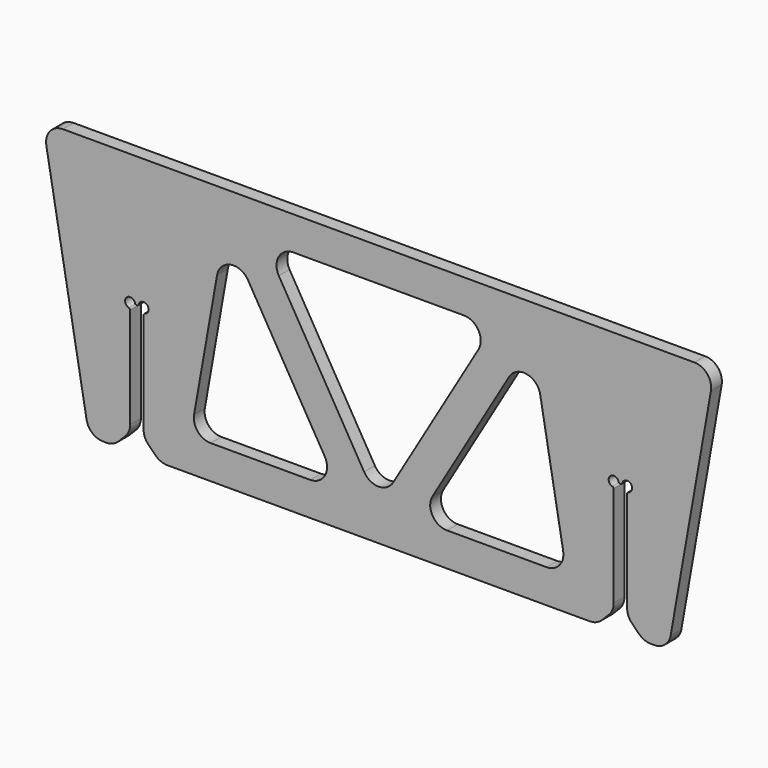
from build123d import *

# Parameters (mm, degrees)
F1_DEPTH = 2
F2_SIZE  = 5
F3_R     = 5
F4_R     = 1.5
F5_DEPTH = 4.001
F6_R     = 0.5
F8_DEPTH = 4.001


with BuildPart() as f1:
    # F0 (on Front) → F1 (new body, symmetric)
    with BuildSketch(Plane.XZ):
        with BuildLine():
            Line((94.041232037, 0), (-94.041232037, 0))
            ThreePointArc((-94.041232037, 0), (-97.8714542526, -1.7860619516), (-98.9652708021, -5.8682408883))
            Line((-98.9652708021, -5.8682408883), (-86.9750361139, -73.8682408883))
            ThreePointArc((-86.9750361139, -73.8682408883), (-85.2649353973, -76.8302222156), (-82.0509973489, -78))
            Line((-82.0509973489, -78), (-74, -78))
            Line((-74, -78), (-74, -39))
            Line((-74, -39), (-70, -39))
            Line((-70, -39), (-70, -78))
            Line((-70, -78), (70, -78))
            Line((70, -78), (70, -39))
            Line((70, -39), (74, -39))
            Line((74, -39), (74, -78))
            Line((74, -78), (82.0509973489, -78))
            ThreePointArc((82.0509973489, -78), (85.2649353973, -76.8302222156), (86.9750361139, -73.8682408883))
            Line((86.9750361139, -73.8682408883), (98.9652708021, -5.8682408883))
            ThreePointArc((98.9652708021, -5.8682408883), (97.8714542526, -1.7860619516), (94.041232037, 0))
        make_face()
    extrude(amount=F1_DEPTH, both=True)

    # F2
    f2_edges = [f1.edges().sort_by_distance(p)[0] for p in [
        (-74, 0, -78),
        (-70, 0, -78),
        (70, 0, -78),
        (74, 0, -78),
    ]]
    chamfer(f2_edges, length=F2_SIZE)

    # F3
    f3_edges = [f1.edges().sort_by_distance(p)[0] for p in [
        (74, 0, -73),
        (79, 0, -78),
        (70, 0, -73),
        (65, 0, -78),
        (-70, 0, -73),
        (-65, 0, -78),
        (-74, 0, -73),
        (-79, 0, -78),
    ]]
    fillet(f3_edges, radius=F3_R)

    # F4 (on face) → F5 (cut, through all)
    with BuildSketch(Plane.XZ.offset(2)):
        with Locations((74, -39)):
            Circle(F4_R)
        with Locations((70, -39)):
            Circle(F4_R)
        with Locations((-70, -39)):
            Circle(F4_R)
        with Locations((-74, -39)):
            Circle(F4_R)
    extrude(amount=-F5_DEPTH, mode=Mode.SUBTRACT)

    # F6
    f6_edges = [f1.edges().sort_by_distance(p)[0] for p in [
        (72.5, 0, -39),
        (74, 0, -40.5),
        (71.5, 0, -39),
        (70, 0, -40.5),
        (-74, 0, -40.5),
        (-72.5, 0, -39),
        (-71.5, 0, -39),
        (-70, 0, -40.5),
    ]]
    fillet(f6_edges, radius=F6_R)

    # F7 (on face) → F8 (cut, through all)
    with BuildSketch(Plane.XZ.offset(2)):
        with BuildLine():
            ThreePointArc((-38.884648043, -21.6798654453), (-44.0825181885, -19.2969474728), (-48.1170495204, -23.3489480955))
            Line((-48.1170495204, -23.3489480955), (-54.9555054903, -62.1317591117))
            ThreePointArc((-54.9555054903, -62.1317591117), (-53.8616889408, -66.2139380484), (-50.0314667252, -68))
            Line((-50.0314667252, -68), (-20.3526544878, -68))
            ThreePointArc((-20.3526544878, -68), (-16.0117664627, -65.4812680536), (-16.0442917755, -60.4626764615))
            Line((-16.0442917755, -60.4626764615), (-38.884648043, -21.6798654453))
        make_face()
        with BuildLine():
            ThreePointArc((-25.4106153193, -10), (-29.7515033444, -12.5187319464), (-29.7189780316, -17.5373235385))
            Line((-29.7189780316, -17.5373235385), (-4.3083627123, -60.6844216043))
            ThreePointArc((-4.3083627123, -60.6844216043), (0, -63.1470980658), (4.3083627123, -60.6844216043))
            Line((4.3083627123, -60.6844216043), (29.7189780316, -17.5373235385))
            ThreePointArc((29.7189780316, -17.5373235385), (29.7515033444, -12.5187319464), (25.4106153193, -10))
            Line((25.4106153193, -10), (-25.4106153193, -10))
        make_face()
        with BuildLine():
            ThreePointArc((50.0314667252, -68), (53.8616889408, -66.2139380484), (54.9555054903, -62.1317591117))
            Line((54.9555054903, -62.1317591117), (48.1170495204, -23.3489480955))
            ThreePointArc((48.1170495204, -23.3489480955), (44.0825181885, -19.2969474728), (38.884648043, -21.6798654453))
            Line((38.884648043, -21.6798654453), (16.0442917755, -60.4626764615))
            ThreePointArc((16.0442917755, -60.4626764615), (16.0117664627, -65.4812680536), (20.3526544878, -68))
            Line((20.3526544878, -68), (50.0314667252, -68))
        make_face()
    extrude(amount=-F8_DEPTH, mode=Mode.SUBTRACT)


solid = f1.part
